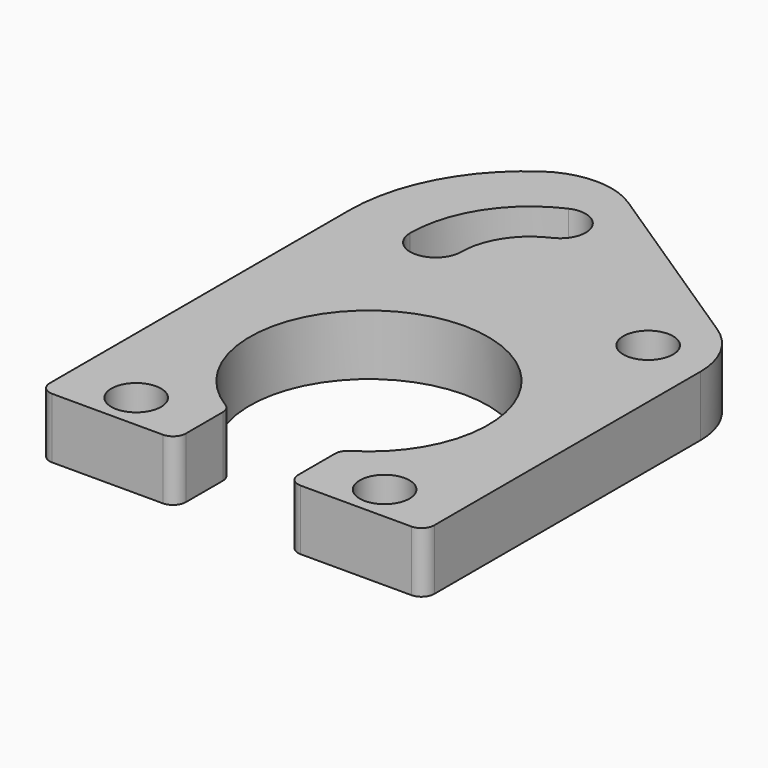
from build123d import *

# Parameters (mm, degrees)
F1_DEPTH = 6.0198
F3_DEPTH = 6.0198
F4_R     = 7.62
F5_R     = 1.27
F6_R     = 2.4765
F7_DEPTH = 6.0198


with BuildPart() as f1:
    # F0 (on Top) → F1 (new body)
    with BuildSketch(Plane.XY):
        with BuildLine():
            ThreePointArc((-5.588, -10.4775), (0, 11.8745), (5.588, -10.4775))
            Line((5.588, -10.4775), (5.588, -17.0815))
            Line((5.588, -17.0815), (19.1516, -17.0815))
            Line((19.1516, -17.0815), (19.1516, 21.4503))
            Line((19.1516, 21.4503), (-6.5024, 38.3413))
            ThreePointArc((-6.5024, 38.3413), (-15.638779, 32.001463), (-19.1516, 21.4503))
            Line((-19.1516, 21.4503), (-19.1516, -17.0815))
            Line((-19.1516, -17.0815), (-5.588, -17.0815))
            Line((-5.588, -17.0815), (-5.588, -10.4775))
        make_face()
    extrude(amount=F1_DEPTH)

    # F2 (on face) → F3 (cut, through all)
    with BuildSketch(Plane.XY.offset(6.0198)):
        with BuildLine():
            ThreePointArc((-6.026316, 32.343552), (-11.145726, 27.932464), (-13.0556, 21.4503))
            ThreePointArc((-13.0556, 21.4503), (-10.5156, 18.9103), (-7.9756, 21.4503))
            ThreePointArc((-7.9756, 21.4503), (-6.877265, 25.178077), (-3.933183, 27.714816))
            ThreePointArc((-3.933183, 27.714816), (-2.665381, 31.07575), (-6.026316, 32.343552))
        make_face()
    extrude(amount=-F3_DEPTH, mode=Mode.SUBTRACT)

    # F4
    f4_edges = [f1.edges().sort_by_distance(p)[0] for p in [
        (-6.5024, 38.3413, 3.0099),
        (19.1516, 21.4503, 3.0099),
    ]]
    fillet(f4_edges, radius=F4_R)

    # F5
    f5_edges = [f1.edges().sort_by_distance(p)[0] for p in [
        (-19.1516, -17.0815, 3.0099),
        (-5.588, -17.0815, 3.0099),
        (5.588, -17.0815, 3.0099),
        (19.1516, -17.0815, 3.0099),
        (5.588, -10.4775, 3.0099),
        (-5.588, -10.4775, 3.0099),
    ]]
    fillet(f5_edges, radius=F5_R)

    # F6 (on face) → F7 (cut, through all)
    with BuildSketch(Plane.XY.offset(6.0198)):
        with Locations((13.208606, 18.247754)):
            Circle(F6_R)
        with Locations((-12.3698, -13.51257)):
            Circle(F6_R)
        with Locations((12.3698, -13.51257)):
            Circle(F6_R)
    extrude(amount=-F7_DEPTH, mode=Mode.SUBTRACT)


solid = f1.part
